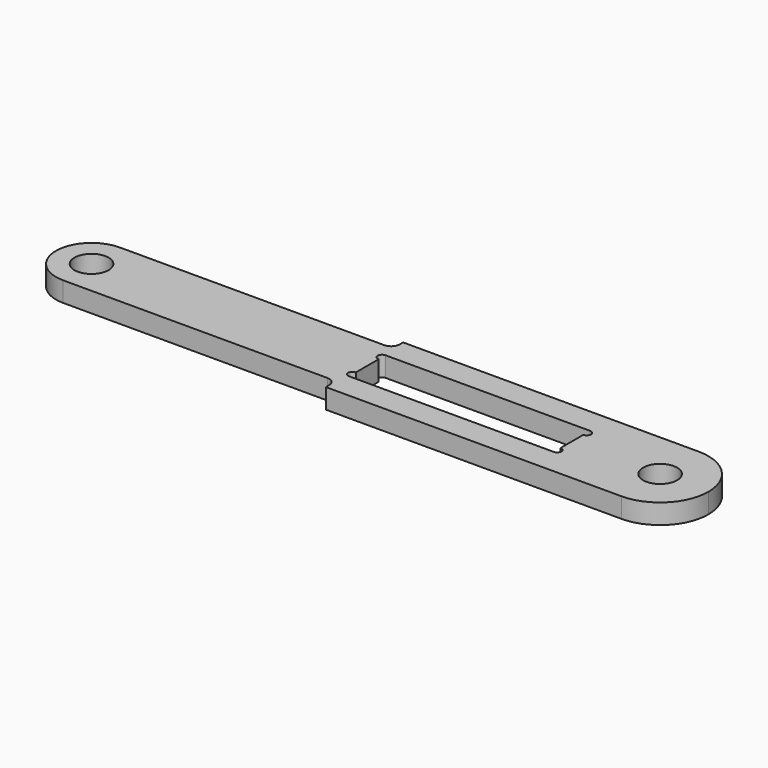
from build123d import *

# Parameters (mm, degrees)
F0_R     = 6
F1_DEPTH = 7
F3_DEPTH = 7.001
F4_R     = 3


with BuildPart() as f1:
    # F0 (on Top) → F1 (new body)
    with BuildSketch(Plane.XY):
        with BuildLine():
            ThreePointArc((0, -17), (-17, 0), (0, 17))
            Line((0, 17), (-104, 17))
            Line((-104, 17), (-104, 12.5))
            Line((-104, 12.5), (-200, 12.5))
            ThreePointArc((-200, 12.5), (-191.1611652352, 8.8388347648), (-187.5, 0))
            ThreePointArc((-187.5, 0), (-191.1611652352, -8.8388347648), (-200, -12.5))
            Line((-200, -12.5), (-104, -12.5))
            Line((-104, -12.5), (-104, -17))
            Line((-104, -17), (0, -17))
        make_face()
        with BuildLine():
            ThreePointArc((0, -17), (12.0208152802, -12.0208152802), (17, 0))
            ThreePointArc((17, 0), (12.0208152802, 12.0208152802), (0, 17))
            ThreePointArc((0, 17), (-17, 0), (0, -17))
        make_face()
        Circle(F0_R, mode=Mode.SUBTRACT)
        with BuildLine():
            ThreePointArc((-187.5, 0), (-191.1611652352, 8.8388347648), (-200, 12.5))
            ThreePointArc((-200, 12.5), (-212.5, 0), (-200, -12.5))
            ThreePointArc((-200, -12.5), (-191.1611652352, -8.8388347648), (-187.5, 0))
        make_face()
        with Locations((-200, 0)):
            Circle(F0_R, mode=Mode.SUBTRACT)
    extrude(amount=F1_DEPTH)

    # F2 (on face) → F3 (cut, through all)
    with BuildSketch(Plane.XY.offset(7)):
        with BuildLine():
            ThreePointArc((-31, 5), (-32.5, 6.5), (-31, 8))
            Line((-31, 8), (-103, 8))
            ThreePointArc((-103, 8), (-101.9393398282, 7.5606601718), (-101.5, 6.5))
            ThreePointArc((-101.5, 6.5), (-101.9393398282, 5.4393398282), (-103, 5))
            Line((-103, 5), (-103, -5))
            ThreePointArc((-103, -5), (-101.9393398282, -5.4393398282), (-101.5, -6.5))
            ThreePointArc((-101.5, -6.5), (-101.9393398282, -7.5606601718), (-103, -8))
            Line((-103, -8), (-31, -8))
            ThreePointArc((-31, -8), (-32.5, -6.5), (-31, -5))
            Line((-31, -5), (-31, 5))
        make_face()
        with BuildLine():
            ThreePointArc((-29.5, 6.5), (-29.9393398282, 7.5606601718), (-31, 8))
            Line((-31, 8), (-31, 5))
            ThreePointArc((-31, 5), (-29.9393398282, 5.4393398282), (-29.5, 6.5))
        make_face()
        with BuildLine():
            Line((-31, 5), (-31, 8))
            ThreePointArc((-31, 8), (-32.5, 6.5), (-31, 5))
        make_face()
        with BuildLine():
            ThreePointArc((-101.5, 6.5), (-101.9393398282, 7.5606601718), (-103, 8))
            Line((-103, 8), (-103, 5))
            ThreePointArc((-103, 5), (-101.9393398282, 5.4393398282), (-101.5, 6.5))
        make_face()
        with BuildLine():
            Line((-103, 5), (-103, 8))
            ThreePointArc((-103, 8), (-104.5, 6.5), (-103, 5))
        make_face()
        with BuildLine():
            ThreePointArc((-29.5, -6.5), (-29.9393398282, -5.4393398282), (-31, -5))
            Line((-31, -5), (-31, -8))
            ThreePointArc((-31, -8), (-29.9393398282, -7.5606601718), (-29.5, -6.5))
        make_face()
        with BuildLine():
            Line((-31, -8), (-31, -5))
            ThreePointArc((-31, -5), (-32.5, -6.5), (-31, -8))
        make_face()
        with BuildLine():
            ThreePointArc((-101.5, -6.5), (-101.9393398282, -5.4393398282), (-103, -5))
            Line((-103, -5), (-103, -8))
            ThreePointArc((-103, -8), (-101.9393398282, -7.5606601718), (-101.5, -6.5))
        make_face()
        with BuildLine():
            Line((-103, -8), (-103, -5))
            ThreePointArc((-103, -5), (-104.5, -6.5), (-103, -8))
        make_face()
    extrude(amount=-F3_DEPTH, mode=Mode.SUBTRACT)

    # F4
    f4_edges = [f1.edges().sort_by_distance(p)[0] for p in [
        (-104, 12.5, 3.5),
        (-104, -12.5, 3.5),
    ]]
    fillet(f4_edges, radius=F4_R)


solid = f1.part
